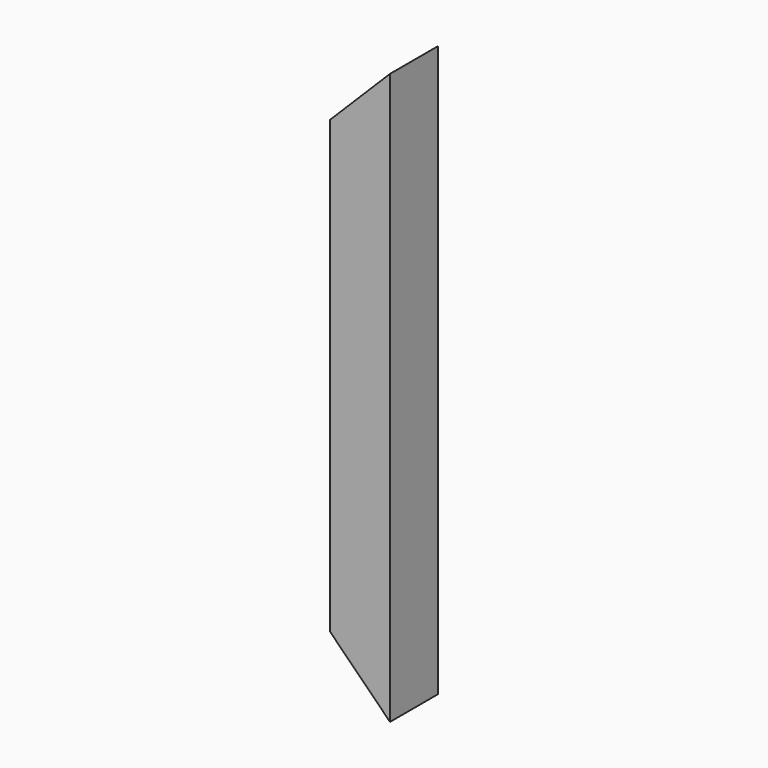
from build123d import *

# Parameters (mm, degrees)
F0_W     = 100
F0_H     = 100
F0_W_2   = 94
F0_H_2   = 94
F1_DEPTH = 950
F3_DEPTH = 100
F5_DEPTH = 100


with BuildPart() as f1:
    # F0 (on Top) → F1 (new body)
    with BuildSketch(Plane.XY):
        with Locations((3.593751, -13.807164)):
            Rectangle(F0_W, F0_H)
        with Locations((3.593751, -13.807164)):
            Rectangle(F0_W_2, F0_H_2, mode=Mode.SUBTRACT)
    extrude(amount=F1_DEPTH)

    # F2 (on face) → F3 (cut)
    with BuildSketch(Plane.XZ.offset(63.807164)):
        Polygon((-46.406249, 850), (53.593751, 950), (-46.406249, 950), align=None)
    extrude(amount=-F3_DEPTH, mode=Mode.SUBTRACT)

    # F4 (on face) → F5 (cut)
    with BuildSketch(Plane.XZ.offset(63.807164)):
        Polygon((-46.406249, 0), (53.593751, 0), (-46.406249, 100), align=None)
    extrude(amount=-F5_DEPTH, mode=Mode.SUBTRACT)


solid = f1.part
